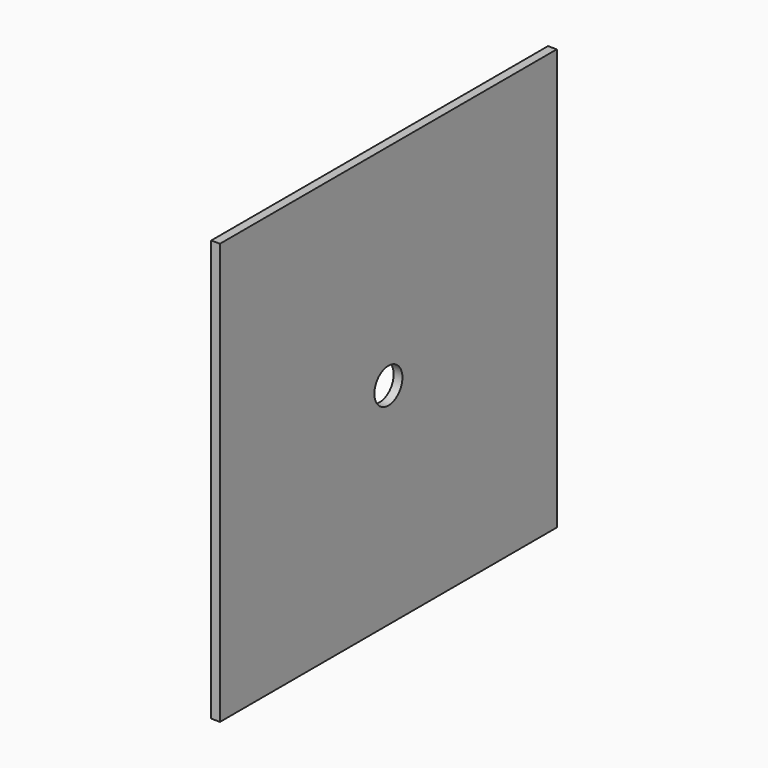
from build123d import *

# Parameters (mm, degrees)
F0_W     = 304.8
F0_H     = 304.8
F0_R     = 12.7
F1_DEPTH = 6.35


with BuildPart() as f1:
    # F0 (on Right) → F1 (new body)
    with BuildSketch(Plane.YZ):
        Rectangle(F0_W, F0_H)
        Circle(F0_R, mode=Mode.SUBTRACT)
    extrude(amount=F1_DEPTH)


solid = f1.part
